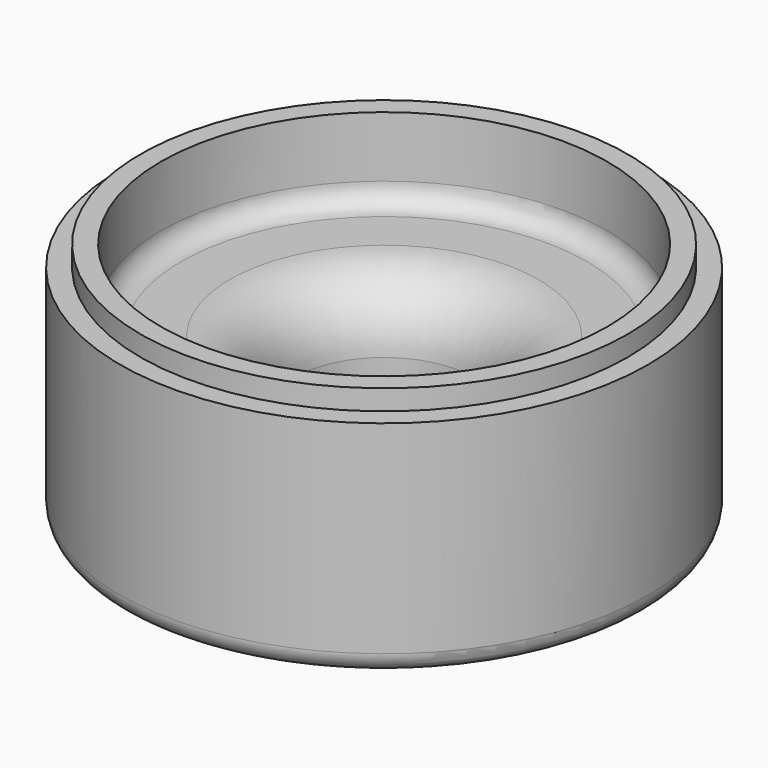
from build123d import *

# Parameters (mm, degrees)
F2_R = 1.6002
F3_R = 5.08


with BuildPart() as f1:
    # F0 (on Front) → F1 (revolve)
    with BuildSketch(Plane.XZ):
        Polygon((6.985, 12.7), (6.985, 0), (20.6375, 0), (20.6375, 17.4625), (19.05, 17.4625), (19.05, 19.05), (17.4625, 19.05), (17.4625, 12.7), align=None)
    revolve(axis=Axis((0, 0, 17.878274), (0, 0, 1)))

    # F2
    f2_edges = [f1.edges().sort_by_distance(p)[0] for p in [
        (-17.4625, 0, 12.7),
        (-20.6375, 0, 0),
    ]]
    fillet(f2_edges, radius=F2_R)

    # F3
    f3_edges = [f1.edges().sort_by_distance(p)[0] for p in [
        (-6.985, 0, 12.7),
    ]]
    fillet(f3_edges, radius=F3_R)


solid = f1.part
